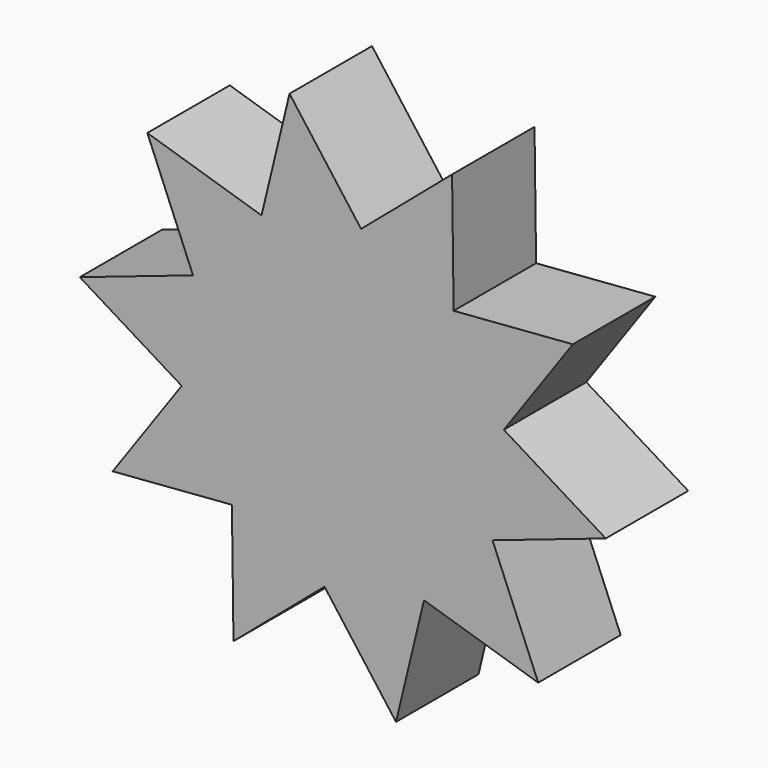
from build123d import *

# Parameters (mm, degrees)
F1_DEPTH = 6.35


with BuildPart() as f1:
    # F0 (on Front) → F1 (new body)
    with BuildSketch(Plane.XZ):
        Polygon((-13.9372432471, -7.1591061907), (-6.593507121, -6.5868337818), (-9.6865712375, -1.1433150152), align=None)
        Polygon((-9.6865712375, -1.1433150152), (-6.593507121, -6.5868337818), (-0.8915456345, -9.172675501), (5.2413577367, -7.9131365257), (9.4626423545, -3.2893179343), (10.1599209711, 2.9326387291), (7.0668568545, 8.3761574957), (1.364895368, 10.9619992149), (-4.7680080032, 9.7024602396), (-8.989292621, 5.0786416482), align=None)
        Polygon((-0.8915456345, -9.172675501), (-6.593507121, -6.5868337818), (-6.4963796804, -13.9521933969), align=None)
        Polygon((-15.9641518481, 2.7102466722), (-9.6865712375, -1.1433150152), (-8.989292621, 5.0786416482), align=None)
        Polygon((5.2413577367, -7.9131365257), (-0.8915456345, -9.172675501), (3.5162818752, -15.0742865222), align=None)
        Polygon((-11.8028952898, 11.8861078451), (-8.989292621, 5.0786416482), (-4.7680080032, 9.7024602396), align=None)
        Polygon((9.4626423545, -3.2893179343), (5.2413577367, -7.9131365257), (12.2762450233, -10.0967841312), align=None)
        Polygon((-3.0429321417, 16.8636102361), (-4.7680080032, 9.7024602396), (1.364895368, 10.9619992149), align=None)
        Polygon((10.1599209711, 2.9326387291), (9.4626423545, -3.2893179343), (16.4375015816, -0.9209229583), align=None)
        Polygon((6.9697294139, 15.7415171108), (1.364895368, 10.9619992149), (7.0668568545, 8.3761574957), align=None)
        Polygon((7.0668568545, 8.3761574957), (10.1599209711, 2.9326387291), (14.4105929806, 8.9484299046), align=None)
    extrude(amount=F1_DEPTH)


solid = f1.part
